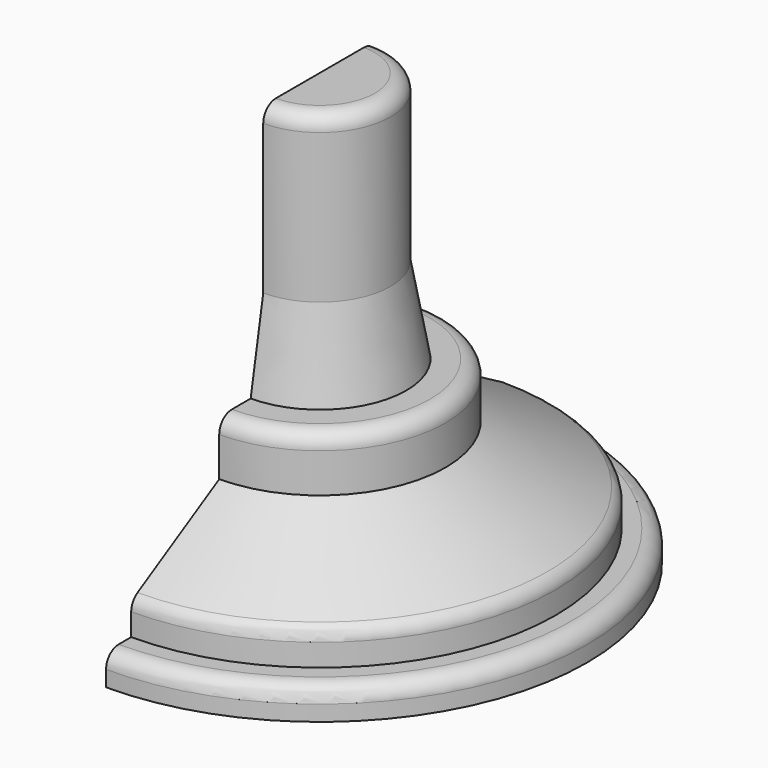
from build123d import *

# Parameters (mm, degrees)
F1_ANGLE = 180


with BuildPart() as f1:
    # F0 (on Front) → F1 (revolve, symmetric)
    with BuildSketch(Plane.XZ) as f1_sk:
        with BuildLine():
            ThreePointArc((27, -23.180852), (28.171573, -26.009279), (31, -27.180852))
            Line((31, -27.180852), (34, -27.180852))
            Line((34, -27.180852), (34, -25.180852))
            ThreePointArc((34, -25.180852), (33.414214, -23.766639), (32, -23.180852))
            Line((32, -23.180852), (30, -23.180852))
            Line((30, -23.180852), (30, -20.341497))
            ThreePointArc((30, -20.341497), (29.72982, -19.337644), (28.992278, -18.605011))
            Line((28.992278, -18.605011), (16, -11.180852))
            Line((16, -11.180852), (16, -6.180852))
            ThreePointArc((16, -6.180852), (15.414214, -4.766639), (14, -4.180852))
            Line((14, -4.180852), (11, -4.180852))
            Line((11, -4.180852), (9, 6.819148))
            Line((9, 6.819148), (9, 25.819148))
            ThreePointArc((9, 25.819148), (8.414214, 27.233361), (7, 27.819148))
            Line((7, 27.819148), (0, 27.819148))
            Line((0, 27.819148), (0, 24.819148))
            Line((0, 24.819148), (4, 24.819148))
            ThreePointArc((4, 24.819148), (5.414214, 24.233361), (6, 22.819148))
            Line((6, 22.819148), (6, 6.548638))
            Line((6, 6.548638), (8.496271, -7.180852))
            Line((8.496271, -7.180852), (10, -7.180852))
            Line((10, -7.180852), (10, -6.180852))
            Line((10, -6.180852), (13, -6.180852))
            Line((13, -6.180852), (13, -7.180852))
            Line((13, -7.180852), (13, -12.92182))
            Line((13, -12.92182), (25.992278, -20.345979))
            ThreePointArc((25.992278, -20.345979), (26.72982, -21.078611), (27, -22.082465))
            Line((27, -22.082465), (27, -23.180852))
        make_face()
    revolve(axis=Axis((0, 0, 0.319148), (0, 0, 1)), revolution_arc=F1_ANGLE / 2)
    revolve(f1_sk.sketch, axis=Axis((0, 0, 0.319148), (0, 0, -1)), revolution_arc=F1_ANGLE / 2)


solid = f1.part
